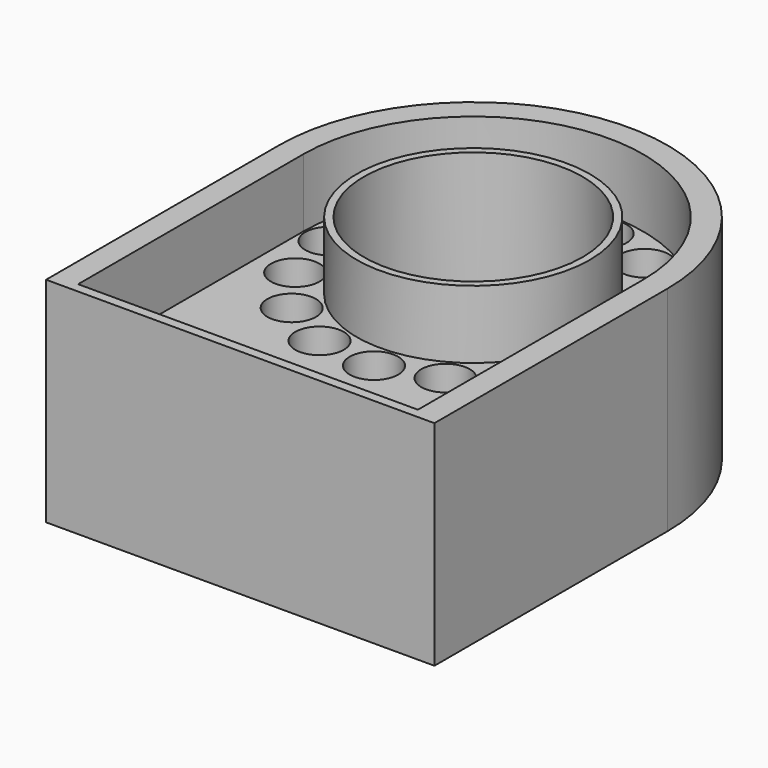
from build123d import *

# Parameters (mm, degrees)
BODY001_PLACEMENT_ANGLE = 30
ARRAY_COUNT             = 15
SKETCH_R                = 11.25
PAD_DEPTH               = 22
CHAMFER_SIZE2           = 7
CHAMFER_SIZE            = 7
SKETCH001_R             = 12
POCKET_DEPTH            = 7
SKETCH002_R             = 1
POCKET001_DEPTH         = 10
SKETCH003_R             = 2.5
POCKET002_DEPTH         = 9
POLARPATTERN_COUNT      = 15


with BuildPart() as array:
    # Sketch004 → Revolution (revolve)
    with BuildSketch(Plane.XZ):
        with BuildLine():
            ThreePointArc((0, -5.3), (1.131371, -4.831371), (1.6, -3.7))
            Line((1.6, -3.7), (1.6, -1))
            Line((1.6, -1), (2.2, -1))
            Line((2.2, -1), (2.2, 0))
            Line((2.2, 0), (0, 0))
            Line((0, 0), (0, -5.3))
        make_face()
    revolve(axis=Axis((0, 0, 0), (0, 0, 1)))


with BuildPart() as array_1:
    # Body001 placement: moved
    add(array.part.moved(Location((15, 0, -15))).rotate(Axis((15, 0, -15), (0, 1, 0)), BODY001_PLACEMENT_ANGLE))

    # Array: Array ×15 about axis
    array_axis = Axis((0, 0, 0), (0, 0, 1))


with BuildPart() as array_2:
    add(array_1.part)
    for i in range(1, ARRAY_COUNT):
        add(array_1.part.rotate(array_axis, i * 360 / ARRAY_COUNT))


with BuildPart() as cut001:
    # Sketch → Pad (new body)
    with BuildSketch(Plane.XY):
        with BuildLine():
            ThreePointArc((20, 0), (0, 20), (-20, 0))
            Line((-20, -30), (-20, 0))
            Line((20, -30), (-20, -30))
            Line((20, 0), (20, -30))
        make_face()
        Circle(SKETCH_R, mode=Mode.SUBTRACT)
    extrude(amount=-PAD_DEPTH)

    # Chamfer
    chamfer_edges = [cut001.edges().sort_by_distance(p)[0] for p in [
        (-11.25, 0, -22),
    ]]
    chamfer_side = cut001.faces().sort_by_distance((-11.25, 0, -11))[0]
    chamfer(chamfer_edges, length=CHAMFER_SIZE, length2=CHAMFER_SIZE2, reference=chamfer_side)

    # Sketch001 (on Face3 of Chamfer) → Pocket (cut)
    with BuildSketch(Plane.XY):
        with BuildLine():
            ThreePointArc((17.5, 0), (0, 17.5), (-17.5, 0))
            Line((-17.5, -29), (-17.5, 0))
            Line((17.5, -29), (-17.5, -29))
            Line((17.5, 0), (17.5, -29))
        make_face()
        Circle(SKETCH001_R, mode=Mode.SUBTRACT)
    extrude(amount=-POCKET_DEPTH, mode=Mode.SUBTRACT)

    # Sketch002 (on Face10 of Pocket) → Pocket001 (cut)
    with BuildSketch(Plane.XY.offset(-7)):
        with Locations((14.25, -25.250535)):
            Circle(SKETCH002_R)
        with Locations((-14.25, -25.250535)):
            Circle(SKETCH002_R)
    extrude(amount=-POCKET001_DEPTH, mode=Mode.SUBTRACT)

    # Sketch003 (on Face10 of Pocket001) → Pocket002 (cut)
    with BuildSketch(Plane.XY.offset(-7)):
        with Locations((-14.8, 0)):
            Circle(SKETCH003_R)
    pocket002 = extrude(amount=-POCKET002_DEPTH, mode=Mode.SUBTRACT)

    # PolarPattern: Pocket002 ×15 about axis
    polarpattern_axis = Axis((0, 0, -7), (0, 0, 1))
    for i in range(1, POLARPATTERN_COUNT):
        add(pocket002.rotate(polarpattern_axis, i * 360 / POLARPATTERN_COUNT), mode=Mode.SUBTRACT)

    # Cut: cut Array
    add(array_2.part, mode=Mode.SUBTRACT)


solid = cut001.part
